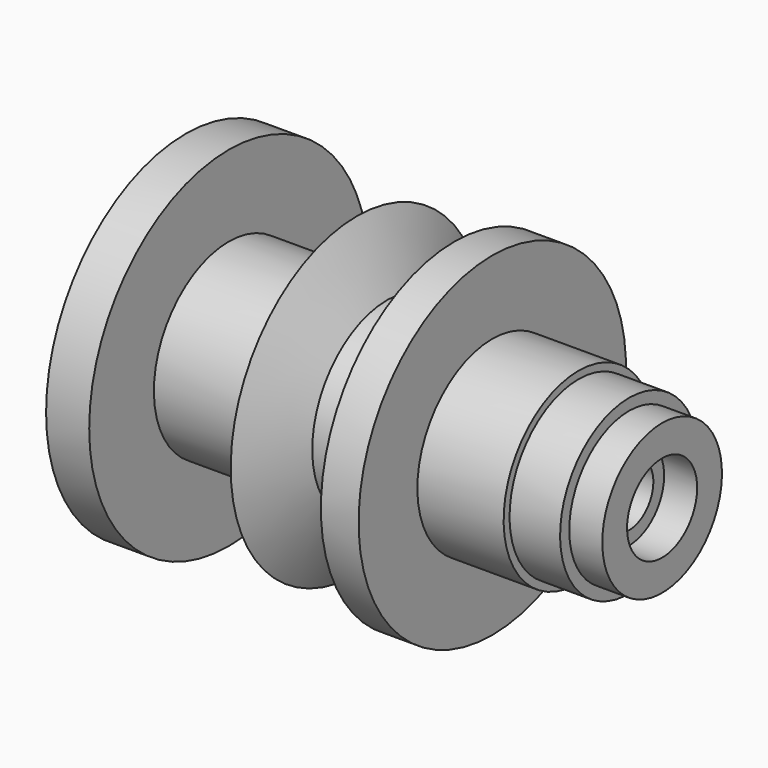
from build123d import *

# Parameters (mm, degrees)
F0_W = 6.10345
F0_H = 11.879934


with BuildPart() as f1:
    # F0 (on Front) → F1 (revolve)
    with BuildSketch(Plane.XZ):
        Polygon((-30.080661, 16.943144), (-33.78633, 16.943144), (-33.78633, 5.390181), (33.460636, 5.390181), (33.460636, 6.698063), (41.634902, 6.698063), (41.634902, 8.877868), (46.975426, 8.877868), (46.975426, 13.891418), (41.634902, 13.891418), (41.634902, 15.744252), (33.460636, 15.744252), (33.460636, 16.943144), (19.509887, 16.943144), (13.406437, 16.943144), (2.507414, 16.943144), (-2.397146, 27.297216), (-6.387777, 16.943144), (-23.105288, 16.943144), (-23.105288, 30.021971), (-30.080661, 30.021971), align=None)
        with Locations((16.458162, 22.883111)):
            Rectangle(F0_W, F0_H)
    revolve(axis=Axis((5.777121, 0, 1.793503), (1, 0, 0)))


solid = f1.part
